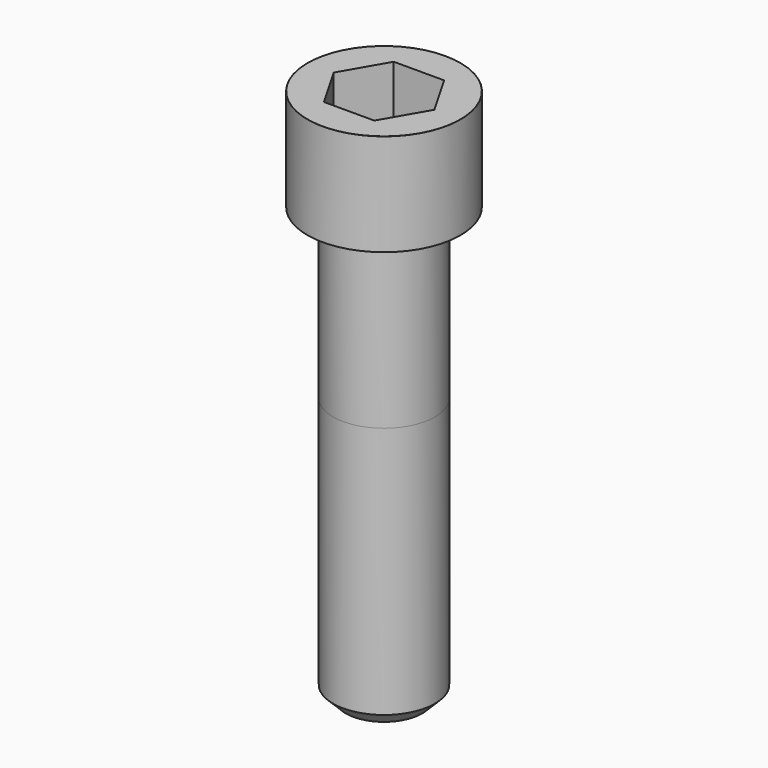
from build123d import *

# Parameters (mm, degrees)
POCKET_DEPTH = 17.1


with BuildPart() as part:
    # Sketch → Revolve (revolve)
    with BuildSketch(Plane.YZ):
        with BuildLine():
            Line((9.999, 0), (15, 0))
            Line((15, 0), (15, 19.97229))
            ThreePointArc((15, 19.97229), (14.991884, 19.991884), (14.97229, 20))
            Line((14.97229, 20), (0, 20))
            Line((0, -85), (0, 20))
            Line((7.5, -85), (0, -85))
            Line((10, -82.5), (7.5, -85))
            Line((10, -33), (10, -82.5))
            Line((9.999, 0), (10, -33))
        make_face()
    revolve(axis=Axis((0, 0, 0), (0, 0, 1)))

    # Sketch001 → Pocket (cut)
    with BuildSketch(Plane.XY.offset(20)):
        Polygon((9.87269, 0), (4.936345, 8.55), (-4.936345, 8.55), (-9.87269, 0), (-4.936345, -8.55), (4.936345, -8.55), align=None)
    extrude(amount=-POCKET_DEPTH, mode=Mode.SUBTRACT)


solid = part.part
